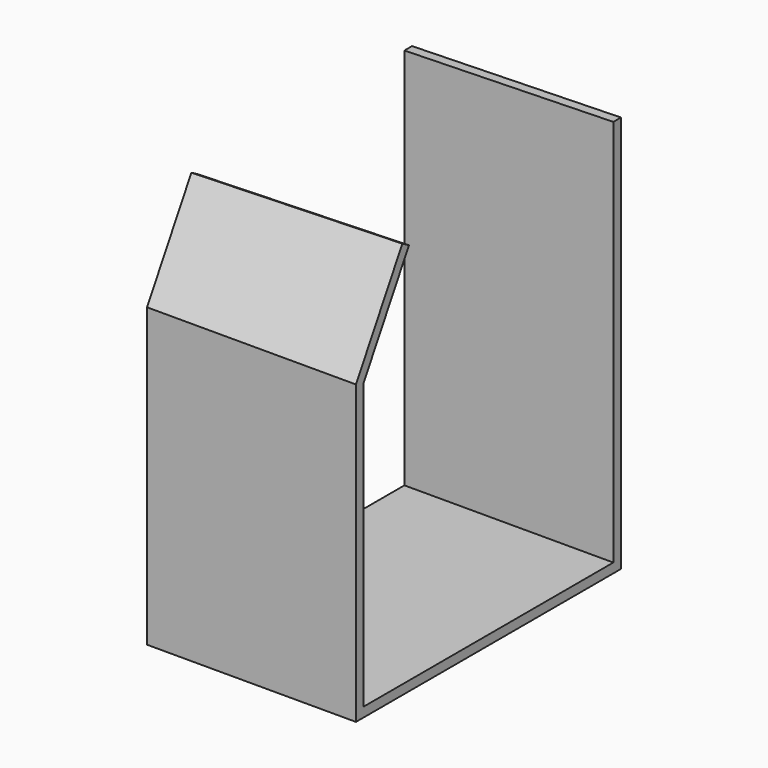
from build123d import *

# Parameters (mm, degrees)
F1_DEPTH = 260.35
F3_DEPTH = 11.90725
F5_DEPTH = 25.4


with BuildPart() as f1:
    # F0 (on Right) → F1 (new body)
    with BuildSketch(Plane.YZ):
        Polygon((11.90625, 0), (0, 0), (0, -483.39375), (-388.9375, -483.39375), (-388.9375, -128.2984649666), (-318.3013850362, -5.953125), (-328.6125, 0), (-400.84375, -125.1081948942), (-400.84375, -495.3), (11.90625, -495.3), align=None)
    extrude(amount=F1_DEPTH)

    # F2 (on Front) → F3 (cut, through all)
    with BuildSketch(Plane.XZ):
        Polygon((260.35, 0), (0, 0), (0, -6.35), align=None)
    extrude(amount=-F3_DEPTH, mode=Mode.SUBTRACT)

    # F4 (on face) → F5 (cut)
    with BuildSketch(Plane(origin=(0, -246.459375, 142.2933865006), x_dir=(1, 0, 0), z_dir=(0, -0.8660254038, 0.5))):
        Polygon((260.35, -164.30625), (0, -164.30625), (0, -170.65625), align=None)
    extrude(amount=-F5_DEPTH, mode=Mode.SUBTRACT)


solid = f1.part
